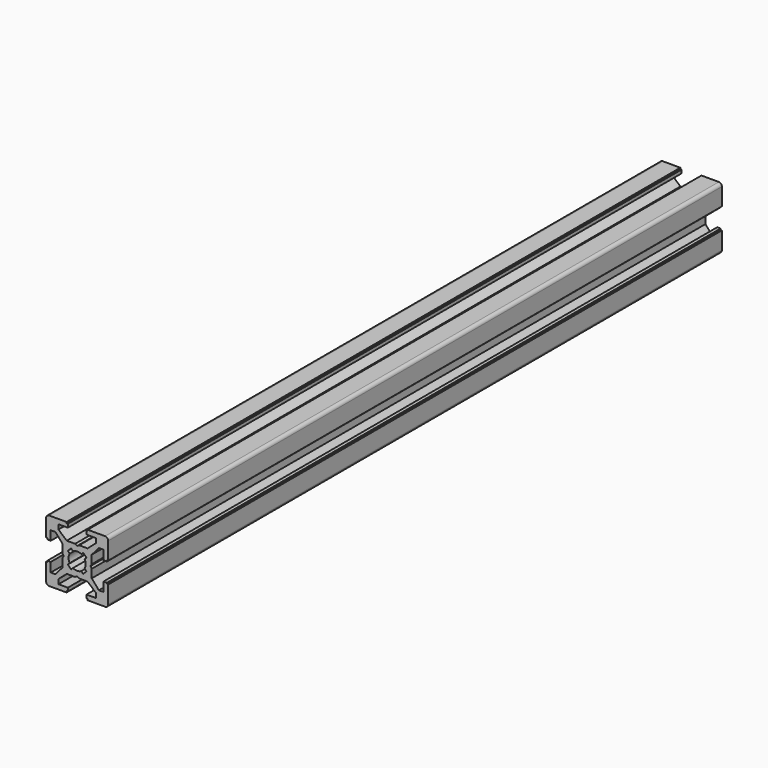
from build123d import *

# Parameters (mm, degrees)
PAD001009_DEPTH       = 247
POCKET021005004_DEPTH = 247
POLARPATTERN003_COUNT = 4
POCKET021005005_DEPTH = 247


with BuildPart() as part:
    # Sketch046 → Pad001009 (new body)
    with BuildSketch(Plane.XZ):
        with BuildLine():
            Line((-9, 10), (9, 10))
            ThreePointArc((10, 9), (9.707107, 9.707107), (9, 10))
            Line((10, 9), (10, -9))
            ThreePointArc((9, -10), (9.707107, -9.707107), (10, -9))
            Line((9, -10), (-9, -10))
            ThreePointArc((-10, -9), (-9.707107, -9.707107), (-9, -10))
            Line((-10, -9), (-10, 9))
            ThreePointArc((-9, 10), (-9.707107, 9.707107), (-10, 9))
        make_face()
    extrude(amount=PAD001009_DEPTH)

    # Sketch045 (on Face10 of Pad001009) → Pocket021005004 (cut)
    with BuildSketch(Plane.XZ.offset(247)):
        Polygon((-3.4, 10), (-3.4, 9.6), (-3, 9.6), (-3, 8.5), (-6, 8.5), (-6, 7), (-3.35, 4.7), (-0.65, 4.7), (0, 4.3), (0.65, 4.7), (3.35, 4.7), (6, 7), (6, 8.5), (3, 8.5), (3, 9.6), (3.4, 9.6), (3.4, 10), align=None)
    pocket021005004 = extrude(amount=-POCKET021005004_DEPTH, mode=Mode.SUBTRACT)

    # PolarPattern003: Pocket021005004 ×4 about axis
    polarpattern003_axis = Axis((0, -247, 0), (0, -1, 0))
    for i in range(1, POLARPATTERN003_COUNT):
        add(pocket021005004.rotate(polarpattern003_axis, i * 360 / POLARPATTERN003_COUNT), mode=Mode.SUBTRACT)

    # Sketch044 (on Face4 of PolarPattern003) → Pocket021005005 (cut)
    with BuildSketch(Plane.XZ.offset(247)):
        with BuildLine():
            ThreePointArc((1.340499, 2.401159), (0, 2.75), (-1.340499, 2.401159))
            Line((-1.944544, 3.005204), (-1.340499, 2.401159))
            Line((-3.005204, 1.944544), (-1.944544, 3.005204))
            Line((-2.401159, 1.340499), (-3.005204, 1.944544))
            ThreePointArc((-2.401159, 1.340499), (-2.75, 0), (-2.401159, -1.340499))
            Line((-3.005204, -1.944544), (-2.401159, -1.340499))
            Line((-1.944544, -3.005204), (-3.005204, -1.944544))
            Line((-1.340499, -2.401159), (-1.944544, -3.005204))
            ThreePointArc((-1.340499, -2.401159), (0, -2.75), (1.340499, -2.401159))
            Line((1.944544, -3.005204), (1.340499, -2.401159))
            Line((3.005204, -1.944544), (1.944544, -3.005204))
            Line((2.401159, -1.340499), (3.005204, -1.944544))
            ThreePointArc((2.401159, -1.340499), (2.75, 0), (2.401159, 1.340499))
            Line((2.401159, 1.340499), (3.005204, 1.944544))
            Line((3.005204, 1.944544), (1.944544, 3.005204))
            Line((1.944544, 3.005204), (1.340499, 2.401159))
        make_face()
    extrude(amount=-POCKET021005005_DEPTH, mode=Mode.SUBTRACT)


solid = part.part
